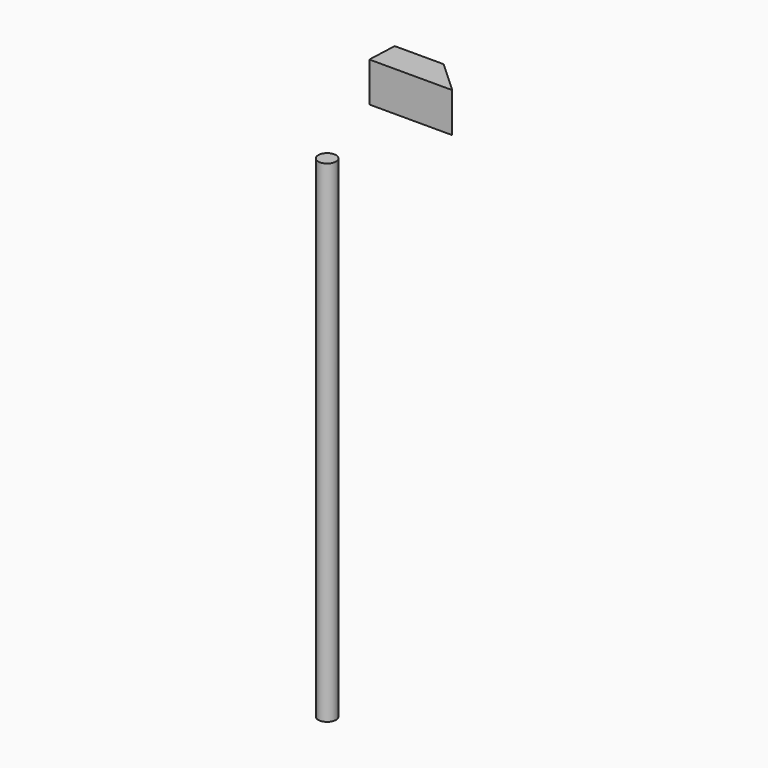
from build123d import *

# Parameters (mm, degrees)
F1_DEPTH = 25.4
F2_R     = 5.666246
F3_DEPTH = 314.992785


with BuildPart() as f1:
    # F0 (on Top) → F1 (new body)
    with BuildSketch(Plane.XY):
        Polygon((12.239948, 38.794495), (-19.086093, 38.794495), (-19.915909, 19.500986), (10.78774, 19.500986), (33.193111, 19.500986), align=None)
    extrude(amount=F1_DEPTH)


with BuildPart() as f3:
    # F2 (on Top) → F3 (new body)
    with BuildSketch(Plane.XY):
        with Locations((0, -39.209411)):
            Circle(F2_R)
    extrude(amount=-F3_DEPTH)


solid = Compound([f1.part, f3.part])
